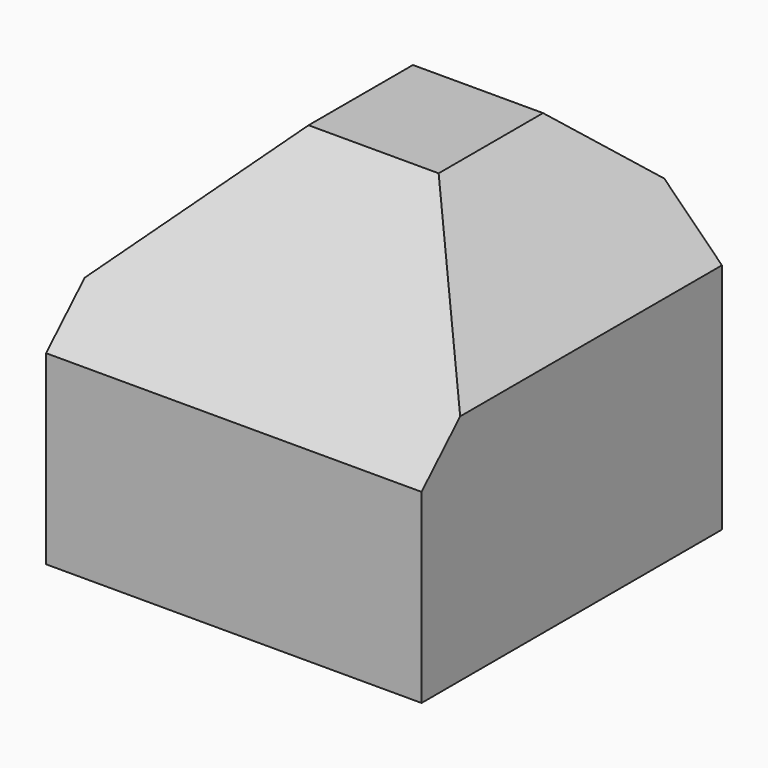
from build123d import *

# Parameters (mm, degrees)
F0_W     = 1010
F0_H     = 1010
F1_DEPTH = 956
F3_DEPTH = 1010
F4_DEPTH = 1010
F6_DEPTH = 1010


with BuildPart() as f1:
    # F0 (on Top) → F1 (new body)
    with BuildSketch(Plane.XY):
        Rectangle(F0_W, F0_H)
    extrude(amount=F1_DEPTH)

    # F2 (on face) → F3 (cut)
    with BuildSketch(Plane(origin=(-505, 0, 0), x_dir=(0, -1, 0), z_dir=(-1, 0, 0))):
        Polygon((-505, 956), (-505, 781), (-316, 956), align=None)
    extrude(amount=-F3_DEPTH, mode=Mode.SUBTRACT)

    # F2 (on face) → F4 (cut)
    with BuildSketch(Plane(origin=(-505, 0, 0), x_dir=(0, -1, 0), z_dir=(-1, 0, 0))):
        Polygon((505, 956), (35, 956), (505, 500), align=None)
    extrude(amount=-F4_DEPTH, mode=Mode.SUBTRACT)

    # F5 (on face) → F6 (cut)
    with BuildSketch(Plane.XZ.offset(505)):
        Polygon((-505, 626), (-175, 956), (-505, 956), align=None)
        Polygon((505, 626), (505, 956), (175, 956), align=None)
    extrude(amount=-F6_DEPTH, mode=Mode.SUBTRACT)


solid = f1.part
